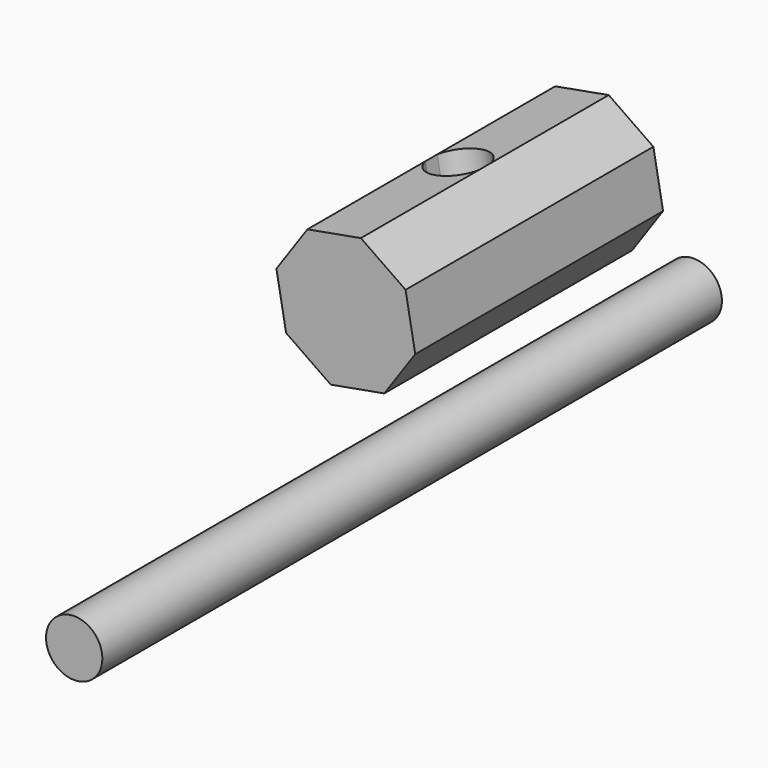
from build123d import *

# Parameters (mm, degrees)
F1_DEPTH = 203.2
F3_DEPTH = 203.2
F4_R     = 18.4785
F5_DEPTH = 508


with BuildPart() as f1:
    # F0 (on Front) → F1 (new body)
    with BuildSketch(Plane.XZ):
        Polygon((-64.0714295495, -21.9243039862), (-43.7495358002, 7.3770304695), (-50.098959215, 42.4659516376), (-79.4002936706, 62.7878453869), (-114.4892148387, 56.4384219721), (-134.811108588, 27.1370875165), (-128.4616851732, -7.9518336516), (-99.1603507176, -28.2737274009), align=None)
    extrude(amount=F1_DEPTH)

    # F2 (on face) → F3 (cut)
    with BuildSketch(Plane(origin=(-13.5188166387, 0, 74.709254736), x_dir=(0.9840195123, 0, 0.178060662), z_dir=(-0.178060662, 0, 0.9840195123))):
        with BuildLine():
            Line((-102.6101585739, -96.7229215922), (-102.6101585739, -106.4770784078))
            ThreePointArc((-102.6101585739, -106.4770784078), (-95.9951181662, -116.2939208433), (-84.7807757576, -120.0843930224))
            ThreePointArc((-84.7807757576, -120.0843930224), (-73.566433349, -116.2939208433), (-66.9513929413, -106.4770784078))
            Line((-66.9513929413, -106.4770784078), (-66.9513929413, -96.7229215922))
            ThreePointArc((-66.9513929413, -96.7229215922), (-84.7807757576, -83.1156069776), (-102.6101585739, -96.7229215922))
        make_face()
    extrude(amount=-F3_DEPTH, mode=Mode.SUBTRACT)


with BuildPart() as f5:
    # F4 (on Front) → F5 (new body)
    with BuildSketch(Plane.XZ):
        with Locations((-23.6219409853, -31.920928508)):
            Circle(F4_R)
    extrude(amount=F5_DEPTH)


solid = Compound([f1.part, f5.part])
